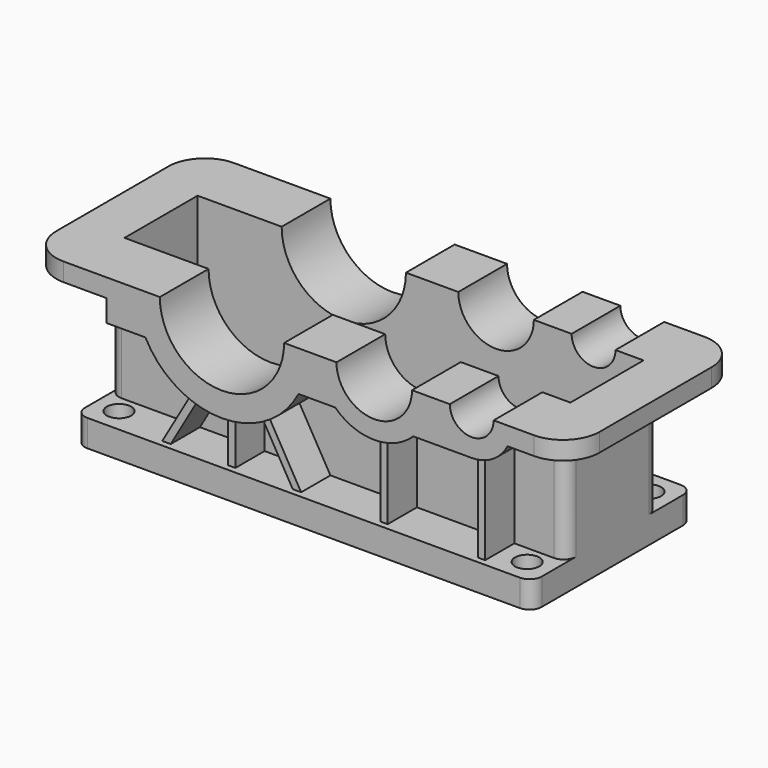
from build123d import *

# Parameters (mm, degrees)
F0_W           = 375
F0_H           = 165
F1_DEPTH       = 22
F2_W           = 375
F2_H           = 95
F3_DEPTH       = 95
F4_R           = 10
F6_DEPTH       = 87.5
F7_W           = 6
F7_H           = 110
F8_DEPTH       = 77.5
F9_R           = 30
F10_R          = 51
F10_R_2        = 31
F10_R_3        = 18
F11_DEPTH      = 87.501
F11_DEPTH_BACK = 87.501
F12_W          = 366
F12_H          = 75
F13_DEPTH      = 120
F14_R          = 10
F15_DEPTH      = 25


with BuildPart() as f1:
    # F0 (on Top) → F1 (new body)
    with BuildSketch(Plane.XY):
        Rectangle(F0_W, F0_H)
    extrude(amount=F1_DEPTH)

    # F2 (on face) → F3 (join)
    with BuildSketch(Plane.XY.offset(22)):
        Rectangle(F2_W, F2_H)
    extrude(amount=F3_DEPTH)

    # F4
    f4_edges = [f1.edges().sort_by_distance(p)[0] for p in [
        (-187.5, -82.5, 11),
        (187.5, -82.5, 11),
        (187.5, 82.5, 11),
        (187.5, 47.5, 69.5),
        (187.5, -47.5, 69.5),
        (-187.5, -47.5, 69.5),
        (-187.5, 47.5, 69.5),
        (-187.5, 82.5, 11),
    ]]
    fillet(f4_edges, radius=F4_R)

    # F5 (on Front) → F6 (join, symmetric)
    with BuildSketch(Plane.XZ):
        with BuildLine():
            Line((223, 132), (-223, 132))
            Line((-223, 132), (-223, 117))
            Line((-223, 117), (-157.864934582, 117))
            Line((-157.864934582, 117), (-157.864934582, 99))
            Line((-157.864934582, 99), (-125.864934582, 99))
            ThreePointArc((-125.864934582, 99), (-63, 61), (-0.135065418, 99))
            Line((-0.135065418, 99), (29.9531592821, 99))
            ThreePointArc((29.9531592821, 99), (62, 86), (94.0468407179, 99))
            Line((94.0468407179, 99), (142, 99))
            ThreePointArc((142, 99), (159.2336879396, 103.8575054411), (171.3938769134, 117))
            Line((171.3938769134, 117), (223, 117))
            Line((223, 117), (223, 132))
        make_face()
    extrude(amount=F6_DEPTH, both=True)

    # F7 (on Front) → F8 (join, symmetric)
    with BuildSketch(Plane.XZ):
        with Locations((-63, 77)):
            Rectangle(F7_W, F7_H)
        with Locations((62, 77)):
            Rectangle(F7_W, F7_H)
        with Locations((142, 77)):
            Rectangle(F7_W, F7_H)
        Polygon((-44.7298753819, 77.0821119323), (-11.1961524227, 19), (-6, 22), (-39.5337229592, 80.0821119323), align=None)
        Polygon((-86.4662770408, 80.0821119323), (-120, 22), (-114.8038475773, 19), (-81.2701246181, 77.0821119323), align=None)
    extrude(amount=F8_DEPTH, both=True)

    # F9
    f9_edges = [f1.edges().sort_by_distance(p)[0] for p in [
        (223, -87.5, 124.5),
        (223, 87.5, 124.5),
        (-223, 87.5, 124.5),
        (-223, -87.5, 124.5),
    ]]
    fillet(f9_edges, radius=F9_R)

    # F10 (on Front) → F11 (cut, two sides)
    with BuildSketch(Plane.XZ) as f11_sk:
        with Locations((-63, 132)):
            Circle(F10_R)
        with Locations((62, 132)):
            Circle(F10_R_2)
        with Locations((142, 132)):
            Circle(F10_R_3)
    extrude(amount=-F11_DEPTH, mode=Mode.SUBTRACT)
    extrude(f11_sk.sketch, amount=F11_DEPTH_BACK, mode=Mode.SUBTRACT)

    # F12 (on face) → F13 (cut)
    with BuildSketch(Plane.XY.offset(132)):
        Rectangle(F12_W, F12_H)
    extrude(amount=-F13_DEPTH, mode=Mode.SUBTRACT)

    # F14 (on face) → F15 (cut)
    with BuildSketch(Plane(origin=(0, 0, 0), x_dir=(1, 0, 0), z_dir=(0, 0, -1))):
        with Locations((-167.5, 62.5)):
            Circle(F14_R)
        with Locations((-167.5, -62.5)):
            Circle(F14_R)
        with Locations((167.5, -62.5)):
            Circle(F14_R)
        with Locations((167.5, 62.5)):
            Circle(F14_R)
    extrude(amount=-F15_DEPTH, mode=Mode.SUBTRACT)


solid = f1.part
